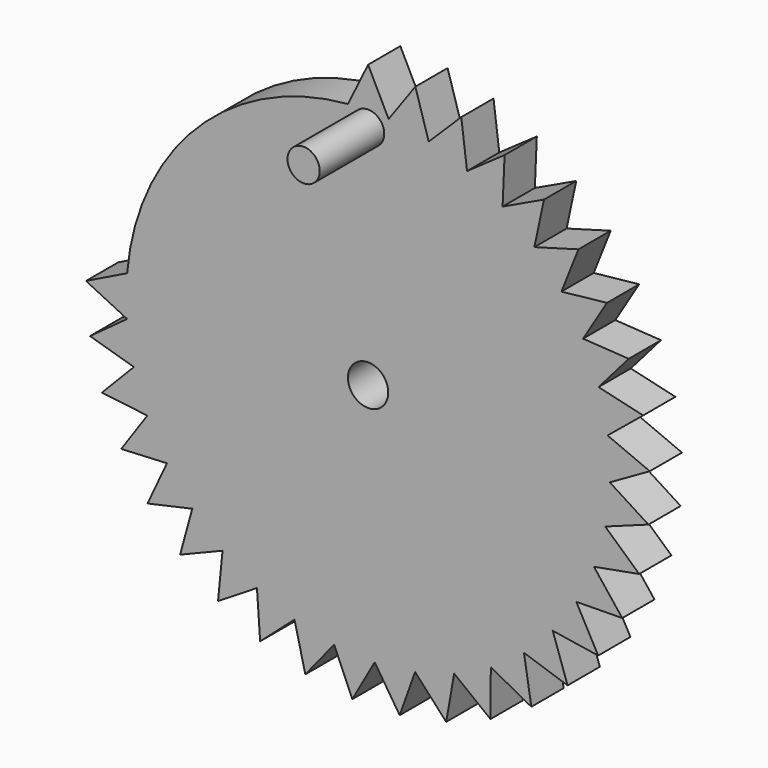
from build123d import *

# Parameters (mm, degrees)
F1_DEPTH = 6.35
F2_R     = 3.175
F3_DEPTH = 25.4
F4_R     = 2.54
F5_DEPTH = 12.7


with BuildPart() as f1:
    # F0 (on Front) → F1 (new body)
    with BuildSketch(Plane.XZ):
        with BuildLine():
            ThreePointArc((38.0841538474, -1.0987382425), (38.0960382559, -0.5494262521), (38.1, 0))
            ThreePointArc((38.1, 0), (38.0850124652, 1.0685623641), (38.0400616522, 2.1362840397))
            Line((38.0400616522, 2.1362840397), (0, 0))
            Line((0, 0), (37.8604351969, -4.2658465395))
            ThreePointArc((37.8604351969, -4.2658465395), (38.0052995649, -2.6846238059), (38.0841538474, -1.0987382425))
        make_face()
        with BuildLine():
            ThreePointArc((38.0400616522, 2.1362840397), (38.0850124652, 1.0685623641), (38.1, 0))
            ThreePointArc((38.1, 0), (38.0960382559, -0.5494262521), (38.0841538474, -1.0987382425))
            Line((38.0841538474, -1.0987382425), (44.3800719275, 2.4923313797))
            Line((44.3800719275, 2.4923313797), (38.0400616522, 2.1362840397))
        make_face()
        with BuildLine():
            Line((0, 0), (38.0400616522, 2.1362840397))
            ThreePointArc((38.0400616522, 2.1362840397), (37.9180145859, 3.7194313898), (37.7301090364, 5.2961185886))
            ThreePointArc((37.7301090364, 5.2961185886), (37.4712213075, 6.8932991902), (37.1447534541, 8.4780475837))
            Line((37.1447534541, 8.4780475837), (0, 0))
        make_face()
        with BuildLine():
            ThreePointArc((37.7301090364, 5.2961185886), (37.9180145859, 3.7194313898), (38.0400616522, 2.1362840397))
            Line((38.0400616522, 2.1362840397), (44.3800719275, 2.4923313797))
            Line((44.3800719275, 2.4923313797), (37.7301090364, 5.2961185886))
        make_face()
        with BuildLine():
            Line((44.1705077298, -4.9768209628), (38.0841538474, -1.0987382425))
            ThreePointArc((38.0841538474, -1.0987382425), (38.0052995649, -2.6846238059), (37.8604351969, -4.2658465395))
            Line((37.8604351969, -4.2658465395), (44.1705077298, -4.9768209628))
        make_face()
        with BuildLine():
            ThreePointArc((37.1447534541, 8.4780475837), (37.4712213075, 6.8932991902), (37.7301090364, 5.2961185886))
            Line((37.7301090364, 5.2961185886), (43.3355456965, 9.8910555144))
            Line((43.3355456965, 9.8910555144), (37.1447534541, 8.4780475837))
        make_face()
        with BuildLine():
            Line((-37.5616858055, -6.3819871079), (0, 0))
            Line((0, 0), (6.3819871079, 37.5616858055))
            ThreePointArc((6.3819871079, 37.5616858055), (4.8113745401, 37.794982141), (3.2324052628, 37.9626336839))
            ThreePointArc((3.2324052628, 37.9626336839), (1.6176613743, 38.06564293), (0, 38.1))
            ThreePointArc((0, 38.1), (-1.5875, 38.0669127163), (-3.1722427264, 37.9677083333))
            ThreePointArc((-3.1722427264, 37.9677083333), (-26.9397901024, 26.9417465885), (-37.9674778593, 3.175))
            ThreePointArc((-37.9674778593, 3.175), (-38.0668550477, 1.5888822422), (-38.1, 0))
            ThreePointArc((-38.1, 0), (-38.0669127163, -1.5875), (-37.9677083333, -3.1722427264))
            ThreePointArc((-37.9677083333, -3.1722427264), (-37.7987825134, -4.7814266182), (-37.5616858055, -6.3819871079))
        make_face()
        with BuildLine():
            Line((6.3819871079, 37.5616858055), (0, 0))
            Line((0, 0), (12.5836322605, 35.9619548847))
            ThreePointArc((12.5836322605, 35.9619548847), (11.0742894366, 36.4550423601), (9.5457120638, 36.8848123378))
            ThreePointArc((9.5457120638, 36.8848123378), (7.9710375516, 37.2568458186), (6.3819871079, 37.5616858055))
        make_face()
        with BuildLine():
            Line((12.5836322605, 35.9619548847), (0, 0))
            Line((0, 0), (18.4296895987, 33.3460123747))
            ThreePointArc((18.4296895987, 33.3460123747), (17.0242674724, 34.0849573423), (15.5892764868, 34.7647013308))
            ThreePointArc((15.5892764868, 34.7647013308), (14.099168445, 35.3952461379), (12.5836322605, 35.9619548847))
        make_face()
        with BuildLine():
            Line((18.4296895987, 33.3460123747), (0, 0))
            Line((0, 0), (23.7549614508, 29.787779482))
            ThreePointArc((23.7549614508, 29.787779482), (22.4931743884, 30.7517008624), (21.1923197123, 31.6622106811))
            ThreePointArc((21.1923197123, 31.6622106811), (19.8288855586, 32.5334489027), (18.4296895987, 33.3460123747))
        make_face()
        with BuildLine():
            Line((23.7549614508, 29.787779482), (0, 0))
            Line((0, 0), (28.408966482, 25.38780462))
            ThreePointArc((28.408966482, 25.38780462), (27.3264700157, 26.5494639585), (26.1965111522, 27.6650104546))
            ThreePointArc((26.1965111522, 27.6650104546), (24.9982787585, 28.7523226733), (23.7549614508, 29.787779482))
        make_face()
        with BuildLine():
            Line((28.408966482, 25.38780462), (0, 0))
            Line((0, 0), (32.2601919906, 20.2704221152))
            ThreePointArc((32.2601919906, 20.2704221152), (31.3875752653, 21.5969932853), (30.4604425502, 22.8860533873))
            ThreePointArc((30.4604425502, 22.8860533873), (29.4612715231, 24.1587143748), (28.408966482, 25.38780462))
        make_face()
        with BuildLine():
            Line((32.2601919906, 20.2704221152), (0, 0))
            Line((0, 0), (35.1998101887, 14.5802387731))
            ThreePointArc((35.1998101887, 14.5802387731), (34.5617315756, 16.0342355757), (33.8636238907, 17.4603830711))
            ThreePointArc((33.8636238907, 17.4603830711), (33.0917487681, 18.8824300202), (32.2601919906, 20.2704221152))
        make_face()
        with BuildLine():
            Line((35.1998101887, 14.5802387731), (0, 0))
            Line((0, 0), (37.1447534541, 8.4780475837))
            ThreePointArc((37.1447534541, 8.4780475837), (36.759243755, 10.0183830311), (36.3098882015, 11.5413178967))
            ThreePointArc((36.3098882015, 11.5413178967), (35.7871206021, 13.0725666574), (35.1998101887, 14.5802387731))
        make_face()
        with BuildLine():
            Line((37.8604351969, -4.2658465395), (0, 0))
            Line((0, 0), (36.6109499661, -10.5474329853))
            ThreePointArc((36.6109499661, -10.5474329853), (37.0186321964, -9.0128170016), (37.3620180496, -7.4625469689))
            ThreePointArc((37.3620180496, -7.4625469689), (37.6451735487, -5.8694896273), (37.8604351969, -4.2658465395))
        make_face()
        with BuildLine():
            Line((36.6109499661, -10.5474329853), (0, 0))
            Line((0, 0), (34.3269138671, -16.5309704604))
            ThreePointArc((34.3269138671, -16.5309704604), (34.9858936904, -15.0863263482), (35.5841077294, -13.6154793195))
            ThreePointArc((35.5841077294, -13.6154793195), (36.1301095486, -12.0923605639), (36.6109499661, -10.5474329853))
        make_face()
        with BuildLine():
            Line((34.3269138671, -16.5309704604), (0, 0))
            Line((0, 0), (31.0728691073, -22.0473763845))
            ThreePointArc((31.0728691073, -22.0473763845), (31.9645250962, -20.7335268436), (32.800663011, -19.3836659598))
            ThreePointArc((32.800663011, -19.3836659598), (33.5940822509, -17.9735260235), (34.3269138671, -16.5309704604))
        make_face()
        with BuildLine():
            Line((31.0728691073, -22.0473763845), (0, 0))
            Line((0, 0), (26.9407683632, -26.9407683632))
            ThreePointArc((26.9407683632, -26.9407683632), (28.0399041357, -25.7948401054), (29.090338372, -24.6041096852))
            ThreePointArc((29.090338372, -24.6041096852), (30.1087546213, -23.3467962504), (31.0728691073, -22.0473763845))
        make_face()
        with BuildLine():
            Line((26.9407683632, -26.9407683632), (0, 0))
            Line((0, 0), (22.0473763845, -31.0728691073))
            ThreePointArc((22.0473763845, -31.0728691073), (23.3229326026, -30.1272437308), (24.5579800287, -29.1292913905))
            ThreePointArc((24.5579800287, -29.1292913905), (25.7726149186, -28.0603335735), (26.9407683632, -26.9407683632))
        make_face()
        with BuildLine():
            Line((22.0473763845, -31.0728691073), (0, 0))
            Line((0, 0), (16.5309704604, -34.3269138671))
            ThreePointArc((16.5309704604, -34.3269138671), (17.9469025038, -33.6083128187), (19.3316631953, -32.8313386584))
            ThreePointArc((19.3316631953, -32.8313386584), (20.7081936181, -31.9809430298), (22.0473763845, -31.0728691073))
        make_face()
        with BuildLine():
            Line((16.5309704604, -34.3269138671), (0, 0))
            Line((0, 0), (10.5474329853, -36.6109499661))
            ThreePointArc((10.5474329853, -36.6109499661), (12.0637294988, -36.1396794477), (13.5590729393, -35.6056391745))
            ThreePointArc((13.5590729393, -35.6056391745), (15.0586009493, -34.9978361824), (16.5309704604, -34.3269138671))
        make_face()
        with BuildLine():
            Line((10.5474329853, -36.6109499661), (0, 0))
            Line((0, 0), (4.2658465395, -37.8604351969))
            ThreePointArc((4.2658465395, -37.8604351969), (5.8396600724, -37.6498123533), (7.4033309023, -37.3737968576))
            ThreePointArc((7.4033309023, -37.3737968576), (8.9834828926, -37.0257617763), (10.5474329853, -36.6109499661))
        make_face()
        with BuildLine():
            Line((4.2658465395, -37.8604351969), (0, 0))
            Line((0, 0), (-2.1362840397, -38.0400616522))
            ThreePointArc((-2.1362840397, -38.0400616522), (-0.5494262521, -38.0960382559), (1.0383858149, -38.0858471732))
            ThreePointArc((1.0383858149, -38.0858471732), (2.6545099091, -38.0074147653), (4.2658465395, -37.8604351969))
        make_face()
        with BuildLine():
            Line((-2.1362840397, -38.0400616522), (0, 0))
            Line((0, 0), (-8.4780475837, -37.1447534541))
            ThreePointArc((-8.4780475837, -37.1447534541), (-6.9229869099, -37.4657477204), (-5.3559019404, -37.72166903))
            ThreePointArc((-5.3559019404, -37.72166903), (-3.7494741172, -37.9150556355), (-2.1362840397, -38.0400616522))
        make_face()
        with BuildLine():
            Line((-8.4780475837, -37.1447534541), (0, 0))
            Line((0, 0), (-14.5802387731, -35.1998101887))
            ThreePointArc((-14.5802387731, -35.1998101887), (-13.10091806, -35.7767514734), (-11.598842817, -36.2915533603))
            ThreePointArc((-11.598842817, -36.2915533603), (-10.0475056427, -36.7512942678), (-8.4780475837, -37.1447534541))
        make_face()
        with BuildLine():
            Line((-14.5802387731, -35.1998101887), (0, 0))
            Line((0, 0), (-20.2704221152, -32.2601919906))
            ThreePointArc((-20.2704221152, -32.2601919906), (-18.9086439527, -33.0767771083), (-17.5140240229, -33.83591232))
            ThreePointArc((-17.5140240229, -33.83591232), (-16.0616151259, -34.5490161878), (-14.5802387731, -35.1998101887))
        make_face()
        with BuildLine():
            Line((-20.2704221152, -32.2601919906), (0, 0))
            Line((0, 0), (-25.38780462, -28.408966482))
            ThreePointArc((-25.38780462, -28.408966482), (-24.1820500849, -29.4421204007), (-22.9342945866, -30.4241373225))
            ThreePointArc((-22.9342945866, -30.4241373225), (-21.6218560838, -31.370453288), (-20.2704221152, -32.2601919906))
        make_face()
        with BuildLine():
            Line((-25.38780462, -28.408966482), (0, 0))
            Line((0, 0), (-29.787779482, -23.7549614508))
            ThreePointArc((-29.787779482, -23.7549614508), (-28.7721207415, -24.9754893453), (-27.7064887033, -26.1526381793))
            ThreePointArc((-27.7064887033, -26.1526381793), (-26.5711074332, -27.305425281), (-25.38780462, -28.408966482))
        make_face()
        with BuildLine():
            Line((-29.787779482, -23.7549614508), (0, 0))
            Line((0, 0), (-33.3460123747, -18.4296895987))
            ThreePointArc((-33.3460123747, -18.4296895987), (-32.5491498758, -19.8031018369), (-31.6957538883, -21.142118755))
            ThreePointArc((-31.6957538883, -21.142118755), (-30.7695134129, -22.4688015777), (-29.787779482, -23.7549614508))
        make_face()
        with BuildLine():
            Line((-33.3460123747, -18.4296895987), (0, 0))
            Line((0, 0), (-35.9619548847, -12.5836322605))
            ThreePointArc((-35.9619548847, -12.5836322605), (-35.4064063384, -14.0711190103), (-34.7893616339, -15.534166122))
            ThreePointArc((-34.7893616339, -15.534166122), (-34.0984356221, -16.9972553115), (-33.3460123747, -18.4296895987))
        make_face()
        with BuildLine():
            Line((-35.9619548847, -12.5836322605), (0, 0))
            Line((0, 0), (-37.5616858055, -6.3819871079))
            ThreePointArc((-37.5616858055, -6.3819871079), (-37.263149882, -7.9415150239), (-36.8998928869, -9.4872495981))
            ThreePointArc((-36.8998928869, -9.4872495981), (-36.4638055004, -11.0454012343), (-35.9619548847, -12.5836322605))
        make_face()
        with BuildLine():
            Line((44.1705077298, -4.9768209628), (37.8604351969, -4.2658465395))
            ThreePointArc((37.8604351969, -4.2658465395), (37.6451735487, -5.8694896273), (37.3620180496, -7.4625469689))
            Line((37.3620180496, -7.4625469689), (44.1705077298, -4.9768209628))
        make_face()
        with BuildLine():
            ThreePointArc((36.3098882015, 11.5413178967), (36.759243755, 10.0183830311), (37.1447534541, 8.4780475837))
            Line((37.1447534541, 8.4780475837), (43.3355456965, 9.8910555144))
            Line((43.3355456965, 9.8910555144), (36.3098882015, 11.5413178967))
        make_face()
        with BuildLine():
            Line((7.4456516259, 43.8219667731), (6.3819871079, 37.5616858055))
            ThreePointArc((6.3819871079, 37.5616858055), (7.9710375516, 37.2568458186), (9.5457120638, 36.8848123378))
            Line((9.5457120638, 36.8848123378), (7.4456516259, 43.8219667731))
        make_face()
        with BuildLine():
            ThreePointArc((3.2324052628, 37.9626336839), (4.8113745401, 37.794982141), (6.3819871079, 37.5616858055))
            Line((6.3819871079, 37.5616858055), (7.4456516259, 43.8219667731))
            Line((7.4456516259, 43.8219667731), (3.2324052628, 37.9626336839))
        make_face()
        with BuildLine():
            Line((14.6809043039, 41.9556140322), (12.5836322605, 35.9619548847))
            ThreePointArc((12.5836322605, 35.9619548847), (14.099168445, 35.3952461379), (15.5892764868, 34.7647013308))
            Line((15.5892764868, 34.7647013308), (14.6809043039, 41.9556140322))
        make_face()
        with BuildLine():
            ThreePointArc((9.5457120638, 36.8848123378), (11.0742894366, 36.4550423601), (12.5836322605, 35.9619548847))
            Line((12.5836322605, 35.9619548847), (14.6809043039, 41.9556140322))
            Line((14.6809043039, 41.9556140322), (9.5457120638, 36.8848123378))
        make_face()
        with BuildLine():
            Line((21.5013045318, 38.9036811038), (18.4296895987, 33.3460123747))
            ThreePointArc((18.4296895987, 33.3460123747), (19.8288855586, 32.5334489027), (21.1923197123, 31.6622106811))
            Line((21.1923197123, 31.6622106811), (21.5013045318, 38.9036811038))
        make_face()
        with BuildLine():
            ThreePointArc((15.5892764868, 34.7647013308), (17.0242674724, 34.0849573423), (18.4296895987, 33.3460123747))
            Line((18.4296895987, 33.3460123747), (21.5013045318, 38.9036811038))
            Line((21.5013045318, 38.9036811038), (15.5892764868, 34.7647013308))
        make_face()
        with BuildLine():
            Line((27.7141216926, 34.7524093957), (23.7549614508, 29.787779482))
            ThreePointArc((23.7549614508, 29.787779482), (24.9982787585, 28.7523226733), (26.1965111522, 27.6650104546))
            Line((26.1965111522, 27.6650104546), (27.7141216926, 34.7524093957))
        make_face()
        with BuildLine():
            ThreePointArc((21.1923197123, 31.6622106811), (22.4931743884, 30.7517008624), (23.7549614508, 29.787779482))
            Line((23.7549614508, 29.787779482), (27.7141216926, 34.7524093957))
            Line((27.7141216926, 34.7524093957), (21.1923197123, 31.6622106811))
        make_face()
        with BuildLine():
            Line((33.1437942291, 29.61910539), (28.408966482, 25.38780462))
            ThreePointArc((28.408966482, 25.38780462), (29.4612715231, 24.1587143748), (30.4604425502, 22.8860533873))
            Line((30.4604425502, 22.8860533873), (33.1437942291, 29.61910539))
        make_face()
        with BuildLine():
            ThreePointArc((26.1965111522, 27.6650104546), (27.3264700157, 26.5494639585), (28.408966482, 25.38780462))
            Line((28.408966482, 25.38780462), (33.1437942291, 29.61910539))
            Line((33.1437942291, 29.61910539), (26.1965111522, 27.6650104546))
        make_face()
        with BuildLine():
            Line((37.6368906557, 23.6488258011), (32.2601919906, 20.2704221152))
            ThreePointArc((32.2601919906, 20.2704221152), (33.0917487681, 18.8824300202), (33.8636238907, 17.4603830711))
            Line((33.8636238907, 17.4603830711), (37.6368906557, 23.6488258011))
        make_face()
        with BuildLine():
            ThreePointArc((30.4604425502, 22.8860533873), (31.3875752653, 21.5969932853), (32.2601919906, 20.2704221152))
            Line((32.2601919906, 20.2704221152), (37.6368906557, 23.6488258011))
            Line((37.6368906557, 23.6488258011), (30.4604425502, 22.8860533873))
        make_face()
        with BuildLine():
            Line((41.0664452201, 17.0102785686), (35.1998101887, 14.5802387731))
            ThreePointArc((35.1998101887, 14.5802387731), (35.7871206021, 13.0725666574), (36.3098882015, 11.5413178967))
            Line((36.3098882015, 11.5413178967), (41.0664452201, 17.0102785686))
        make_face()
        with BuildLine():
            ThreePointArc((33.8636238907, 17.4603830711), (34.5617315756, 16.0342355757), (35.1998101887, 14.5802387731))
            Line((35.1998101887, 14.5802387731), (41.0664452201, 17.0102785686))
            Line((41.0664452201, 17.0102785686), (33.8636238907, 17.4603830711))
        make_face()
        with BuildLine():
            Line((42.7127749605, -12.3053384828), (36.6109499661, -10.5474329853))
            ThreePointArc((36.6109499661, -10.5474329853), (36.1301095486, -12.0923605639), (35.5841077294, -13.6154793195))
            Line((35.5841077294, -13.6154793195), (42.7127749605, -12.3053384828))
        make_face()
        with BuildLine():
            ThreePointArc((37.3620180496, -7.4625469689), (37.0186321964, -9.0128170016), (36.6109499661, -10.5474329853))
            Line((36.6109499661, -10.5474329853), (42.7127749605, -12.3053384828))
            Line((42.7127749605, -12.3053384828), (37.3620180496, -7.4625469689))
        make_face()
        with BuildLine():
            Line((40.0480661783, -19.2861322038), (34.3269138671, -16.5309704604))
            ThreePointArc((34.3269138671, -16.5309704604), (33.5940822509, -17.9735260235), (32.800663011, -19.3836659598))
            Line((32.800663011, -19.3836659598), (40.0480661783, -19.2861322038))
        make_face()
        with BuildLine():
            ThreePointArc((35.5841077294, -13.6154793195), (34.9858936904, -15.0863263482), (34.3269138671, -16.5309704604))
            Line((34.3269138671, -16.5309704604), (40.0480661783, -19.2861322038))
            Line((40.0480661783, -19.2861322038), (35.5841077294, -13.6154793195))
        make_face()
        with BuildLine():
            Line((36.2516806252, -25.7219391152), (31.0728691073, -22.0473763845))
            ThreePointArc((31.0728691073, -22.0473763845), (30.1087546213, -23.3467962504), (29.090338372, -24.6041096852))
            Line((29.090338372, -24.6041096852), (36.2516806252, -25.7219391152))
        make_face()
        with BuildLine():
            ThreePointArc((32.800663011, -19.3836659598), (31.9645250962, -20.7335268436), (31.0728691073, -22.0473763845))
            Line((31.0728691073, -22.0473763845), (36.2516806252, -25.7219391152))
            Line((36.2516806252, -25.7219391152), (32.800663011, -19.3836659598))
        make_face()
        with BuildLine():
            Line((31.4308964237, -31.4308964237), (26.9407683632, -26.9407683632))
            ThreePointArc((26.9407683632, -26.9407683632), (25.7726149186, -28.0603335735), (24.5579800287, -29.1292913905))
            Line((24.5579800287, -29.1292913905), (31.4308964237, -31.4308964237))
        make_face()
        with BuildLine():
            ThreePointArc((29.090338372, -24.6041096852), (28.0399041357, -25.7948401054), (26.9407683632, -26.9407683632))
            Line((26.9407683632, -26.9407683632), (31.4308964237, -31.4308964237))
            Line((31.4308964237, -31.4308964237), (29.090338372, -24.6041096852))
        make_face()
        with BuildLine():
            Line((25.7219391152, -36.2516806252), (22.0473763845, -31.0728691073))
            ThreePointArc((22.0473763845, -31.0728691073), (20.7081936181, -31.9809430298), (19.3316631953, -32.8313386584))
            Line((19.3316631953, -32.8313386584), (25.7219391152, -36.2516806252))
        make_face()
        with BuildLine():
            ThreePointArc((24.5579800287, -29.1292913905), (23.3229326026, -30.1272437308), (22.0473763845, -31.0728691073))
            Line((22.0473763845, -31.0728691073), (25.7219391152, -36.2516806252))
            Line((25.7219391152, -36.2516806252), (24.5579800287, -29.1292913905))
        make_face()
        with BuildLine():
            Line((19.2861322038, -40.0480661783), (16.5309704604, -34.3269138671))
            ThreePointArc((16.5309704604, -34.3269138671), (15.0586009493, -34.9978361824), (13.5590729393, -35.6056391745))
            Line((13.5590729393, -35.6056391745), (19.2861322038, -40.0480661783))
        make_face()
        with BuildLine():
            ThreePointArc((19.3316631953, -32.8313386584), (17.9469025038, -33.6083128187), (16.5309704604, -34.3269138671))
            Line((16.5309704604, -34.3269138671), (19.2861322038, -40.0480661783))
            Line((19.2861322038, -40.0480661783), (19.3316631953, -32.8313386584))
        make_face()
        with BuildLine():
            Line((12.3053384828, -42.7127749605), (10.5474329853, -36.6109499661))
            ThreePointArc((10.5474329853, -36.6109499661), (8.9834828926, -37.0257617763), (7.4033309023, -37.3737968576))
            Line((7.4033309023, -37.3737968576), (12.3053384828, -42.7127749605))
        make_face()
        with BuildLine():
            ThreePointArc((13.5590729393, -35.6056391745), (12.0637294988, -36.1396794477), (10.5474329853, -36.6109499661))
            Line((10.5474329853, -36.6109499661), (12.3053384828, -42.7127749605))
            Line((12.3053384828, -42.7127749605), (13.5590729393, -35.6056391745))
        make_face()
        with BuildLine():
            Line((4.9768209628, -44.1705077298), (4.2658465395, -37.8604351969))
            ThreePointArc((4.2658465395, -37.8604351969), (2.6545099091, -38.0074147653), (1.0383858149, -38.0858471732))
            Line((1.0383858149, -38.0858471732), (4.9768209628, -44.1705077298))
        make_face()
        with BuildLine():
            ThreePointArc((7.4033309023, -37.3737968576), (5.8396600724, -37.6498123533), (4.2658465395, -37.8604351969))
            Line((4.2658465395, -37.8604351969), (4.9768209628, -44.1705077298))
            Line((4.9768209628, -44.1705077298), (7.4033309023, -37.3737968576))
        make_face()
        with BuildLine():
            Line((-2.4923313797, -44.3800719275), (-2.1362840397, -38.0400616522))
            ThreePointArc((-2.1362840397, -38.0400616522), (-3.7494741172, -37.9150556355), (-5.3559019404, -37.72166903))
            Line((-5.3559019404, -37.72166903), (-2.4923313797, -44.3800719275))
        make_face()
        with BuildLine():
            ThreePointArc((1.0383858149, -38.0858471732), (-0.5494262521, -38.0960382559), (-2.1362840397, -38.0400616522))
            Line((-2.1362840397, -38.0400616522), (-2.4923313797, -44.3800719275))
            Line((-2.4923313797, -44.3800719275), (1.0383858149, -38.0858471732))
        make_face()
        with BuildLine():
            Line((-9.8910555144, -43.3355456965), (-8.4780475837, -37.1447534541))
            ThreePointArc((-8.4780475837, -37.1447534541), (-10.0475056427, -36.7512942678), (-11.598842817, -36.2915533603))
            Line((-11.598842817, -36.2915533603), (-9.8910555144, -43.3355456965))
        make_face()
        with BuildLine():
            ThreePointArc((-5.3559019404, -37.72166903), (-6.9229869099, -37.4657477204), (-8.4780475837, -37.1447534541))
            Line((-8.4780475837, -37.1447534541), (-9.8910555144, -43.3355456965))
            Line((-9.8910555144, -43.3355456965), (-5.3559019404, -37.72166903))
        make_face()
        with BuildLine():
            Line((-17.0102785686, -41.0664452201), (-14.5802387731, -35.1998101887))
            ThreePointArc((-14.5802387731, -35.1998101887), (-16.0616151259, -34.5490161878), (-17.5140240229, -33.83591232))
            Line((-17.5140240229, -33.83591232), (-17.0102785686, -41.0664452201))
        make_face()
        with BuildLine():
            ThreePointArc((-11.598842817, -36.2915533603), (-13.10091806, -35.7767514734), (-14.5802387731, -35.1998101887))
            Line((-14.5802387731, -35.1998101887), (-17.0102785686, -41.0664452201))
            Line((-17.0102785686, -41.0664452201), (-11.598842817, -36.2915533603))
        make_face()
        with BuildLine():
            Line((-23.6488258011, -37.6368906557), (-20.2704221152, -32.2601919906))
            ThreePointArc((-20.2704221152, -32.2601919906), (-21.6218560838, -31.370453288), (-22.9342945866, -30.4241373225))
            Line((-22.9342945866, -30.4241373225), (-23.6488258011, -37.6368906557))
        make_face()
        with BuildLine():
            ThreePointArc((-17.5140240229, -33.83591232), (-18.9086439527, -33.0767771083), (-20.2704221152, -32.2601919906))
            Line((-20.2704221152, -32.2601919906), (-23.6488258011, -37.6368906557))
            Line((-23.6488258011, -37.6368906557), (-17.5140240229, -33.83591232))
        make_face()
        with BuildLine():
            Line((-29.61910539, -33.1437942291), (-25.38780462, -28.408966482))
            ThreePointArc((-25.38780462, -28.408966482), (-26.5711074332, -27.305425281), (-27.7064887033, -26.1526381793))
            Line((-27.7064887033, -26.1526381793), (-29.61910539, -33.1437942291))
        make_face()
        with BuildLine():
            ThreePointArc((-22.9342945866, -30.4241373225), (-24.1820500849, -29.4421204007), (-25.38780462, -28.408966482))
            Line((-25.38780462, -28.408966482), (-29.61910539, -33.1437942291))
            Line((-29.61910539, -33.1437942291), (-22.9342945866, -30.4241373225))
        make_face()
        with BuildLine():
            Line((-34.7524093957, -27.7141216926), (-29.787779482, -23.7549614508))
            ThreePointArc((-29.787779482, -23.7549614508), (-30.7695134129, -22.4688015777), (-31.6957538883, -21.142118755))
            Line((-31.6957538883, -21.142118755), (-34.7524093957, -27.7141216926))
        make_face()
        with BuildLine():
            ThreePointArc((-27.7064887033, -26.1526381793), (-28.7721207415, -24.9754893453), (-29.787779482, -23.7549614508))
            Line((-29.787779482, -23.7549614508), (-34.7524093957, -27.7141216926))
            Line((-34.7524093957, -27.7141216926), (-27.7064887033, -26.1526381793))
        make_face()
        with BuildLine():
            Line((-38.9036811038, -21.5013045318), (-33.3460123747, -18.4296895987))
            ThreePointArc((-33.3460123747, -18.4296895987), (-34.0984356221, -16.9972553115), (-34.7893616339, -15.534166122))
            Line((-34.7893616339, -15.534166122), (-38.9036811038, -21.5013045318))
        make_face()
        with BuildLine():
            ThreePointArc((-31.6957538883, -21.142118755), (-32.5491498758, -19.8031018369), (-33.3460123747, -18.4296895987))
            Line((-33.3460123747, -18.4296895987), (-38.9036811038, -21.5013045318))
            Line((-38.9036811038, -21.5013045318), (-31.6957538883, -21.142118755))
        make_face()
        with BuildLine():
            Line((-41.9556140322, -14.6809043039), (-35.9619548847, -12.5836322605))
            ThreePointArc((-35.9619548847, -12.5836322605), (-36.4638055004, -11.0454012343), (-36.8998928869, -9.4872495981))
            Line((-36.8998928869, -9.4872495981), (-41.9556140322, -14.6809043039))
        make_face()
        with BuildLine():
            ThreePointArc((-34.7893616339, -15.534166122), (-35.4064063384, -14.0711190103), (-35.9619548847, -12.5836322605))
            Line((-35.9619548847, -12.5836322605), (-41.9556140322, -14.6809043039))
            Line((-41.9556140322, -14.6809043039), (-34.7893616339, -15.534166122))
        make_face()
        with BuildLine():
            Line((-43.8219667731, -7.4456516259), (-37.5616858055, -6.3819871079))
            ThreePointArc((-37.5616858055, -6.3819871079), (-37.7987825134, -4.7814266182), (-37.9677083333, -3.1722427264))
            Line((-37.9677083333, -3.1722427264), (-43.8219667731, -7.4456516259))
        make_face()
        with BuildLine():
            ThreePointArc((-36.8998928869, -9.4872495981), (-37.263149882, -7.9415150239), (-37.5616858055, -6.3819871079))
            Line((-37.5616858055, -6.3819871079), (-43.8219667731, -7.4456516259))
            Line((-43.8219667731, -7.4456516259), (-36.8998928869, -9.4872495981))
        make_face()
        with BuildLine():
            ThreePointArc((0, 38.1), (1.6176613743, 38.06564293), (3.2324052628, 37.9626336839))
            Line((3.2324052628, 37.9626336839), (0, 44.45))
            Line((0, 44.45), (0, 38.1))
        make_face()
        with BuildLine():
            Line((-44.45, 0), (-37.9677083333, -3.1722427264))
            ThreePointArc((-37.9677083333, -3.1722427264), (-38.0669127163, -1.5875), (-38.1, 0))
            Line((-38.1, 0), (-44.45, 0))
        make_face()
        with BuildLine():
            ThreePointArc((-3.1722427264, 37.9677083333), (-1.5875, 38.0669127163), (0, 38.1))
            Line((0, 38.1), (0, 44.45))
            Line((0, 44.45), (-3.1722427264, 37.9677083333))
        make_face()
        with BuildLine():
            Line((-44.45, 0), (-38.1, 0))
            ThreePointArc((-38.1, 0), (-38.0668550477, 1.5888822422), (-37.9674778593, 3.175))
            Line((-37.9674778593, 3.175), (-44.45, 0))
        make_face()
    extrude(amount=F1_DEPTH)

    # F2 (on face) → F3 (cut)
    with BuildSketch(Plane.XZ.offset(6.35)):
        Circle(F2_R)
    extrude(amount=-F3_DEPTH, mode=Mode.SUBTRACT)

    # F4 (on face) → F5 (join)
    with BuildSketch(Plane.XZ.offset(6.35)):
        with Locations((0, 35.6941140311)):
            Circle(F4_R)
    extrude(amount=F5_DEPTH)


solid = f1.part
